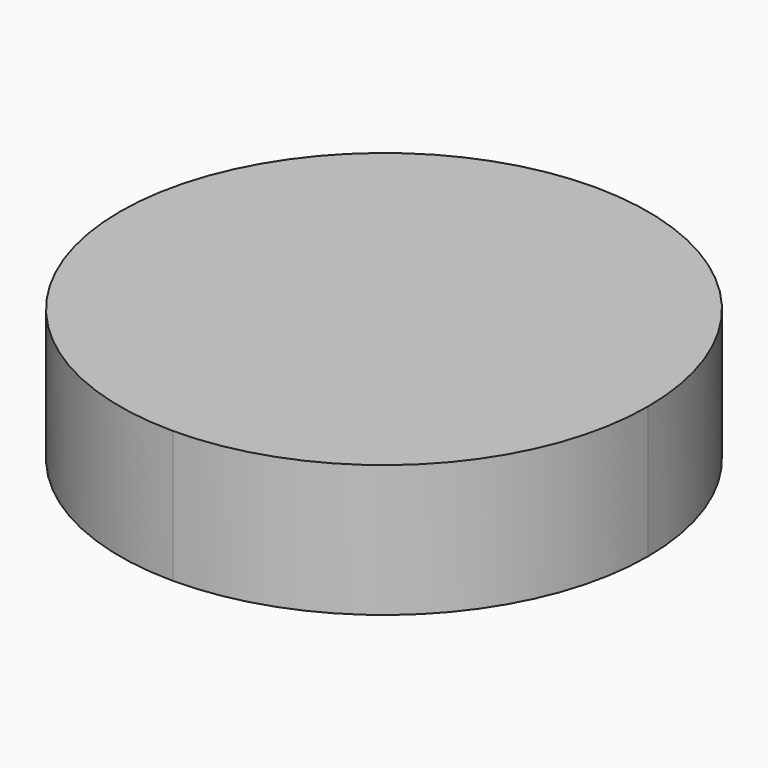
from build123d import *

# Parameters (mm, degrees)
F1_DEPTH = 5


with BuildPart() as f1:
    # F0 (on Top) → F1 (new body)
    with BuildSketch(Plane.XY):
        with BuildLine():
            Line((0, 0), (0, 10))
            ThreePointArc((0, 10), (-7.0710678119, 7.0710678119), (-10, 0))
            Line((-10, 0), (0, 0))
        make_face()
        with BuildLine():
            Line((0, 0), (10, 0))
            ThreePointArc((10, 0), (7.0710678119, 7.0710678119), (0, 10))
            Line((0, 10), (0, 0))
        make_face()
        with BuildLine():
            ThreePointArc((0, -10), (7.0710678119, -7.0710678119), (10, 0))
            Line((10, 0), (0, 0))
            Line((0, 0), (0, -10))
        make_face()
        with BuildLine():
            ThreePointArc((-10, 0), (-7.0710678119, -7.0710678119), (0, -10))
            Line((0, -10), (0, 0))
            Line((0, 0), (-10, 0))
        make_face()
    extrude(amount=F1_DEPTH)


solid = f1.part
